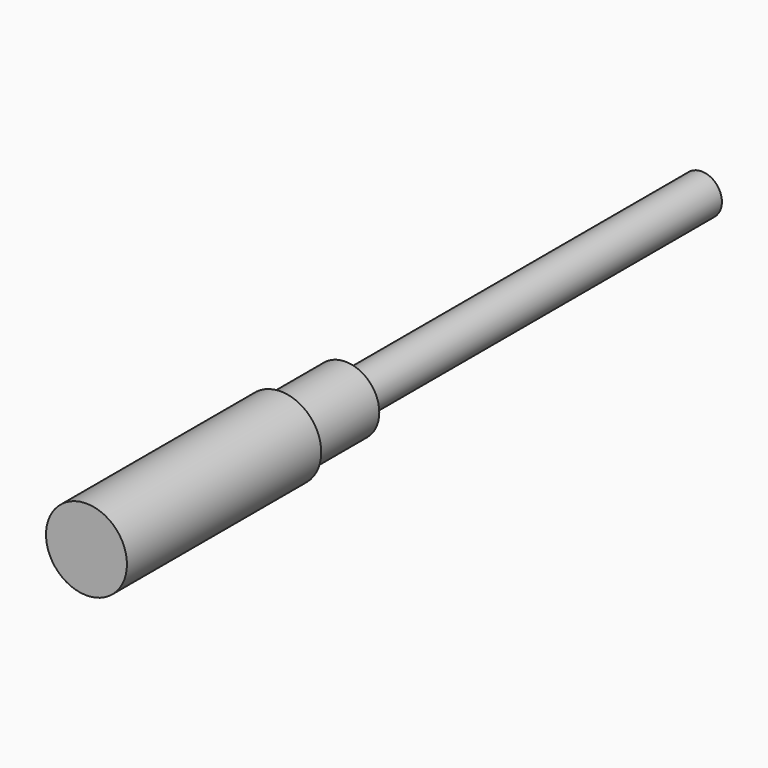
from build123d import *

# Parameters (mm, degrees)
F0_R     = 1.5
F1_DEPTH = 33
F2_R     = 2.5016426342
F2_R_2   = 1.5
F3_DEPTH = 6
F4_R     = 3
F4_R_2   = 2.5016426342
F5_DEPTH = 18


with BuildPart() as f1:
    # F0 (on Front) → F1 (new body)
    with BuildSketch(Plane.XZ):
        Circle(F0_R)
    extrude(amount=F1_DEPTH)

    # F2 (on face) → F3 (join)
    with BuildSketch(Plane.XZ.offset(33)):
        Circle(F2_R)
        Circle(F2_R_2, mode=Mode.SUBTRACT)
        Circle(F2_R_2)
    extrude(amount=F3_DEPTH)

    # F4 (on face) → F5 (join)
    with BuildSketch(Plane.XZ.offset(39)):
        Circle(F4_R)
        Circle(F4_R_2, mode=Mode.SUBTRACT)
        Circle(F4_R_2)
    extrude(amount=F5_DEPTH)


solid = f1.part
